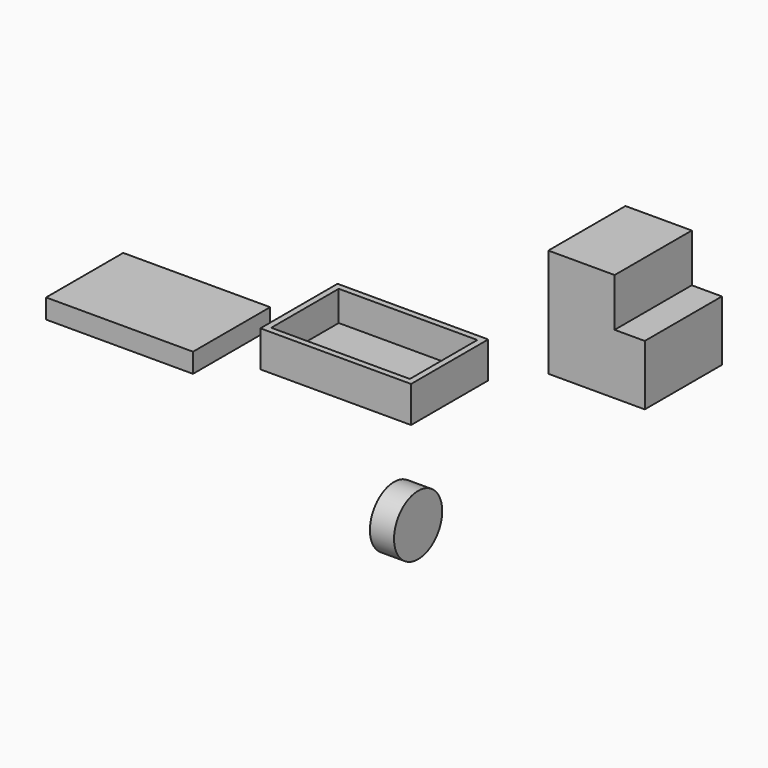
from build123d import *

# Parameters (mm, degrees)
F0_W     = 101.6
F0_H     = 63.5
F1_DEPTH = 101.6
F0_H_2   = 50.8
F2_DEPTH = 69.85
F3_W     = 158.75
F3_H     = 38.1
F4_DEPTH = 101.6
F3_W_2   = 154.7997891903
F3_H_2   = 20.5638110638
F5_R     = 31.75
F6_DEPTH = 25.4
F7_T     = -6.35


with BuildPart() as f1:
    # F0 (on Right) → F1 (new body)
    with BuildSketch(Plane.YZ):
        with Locations((129.9776777284, -311.7317557335)):
            Rectangle(F0_W, F0_H)
    extrude(amount=F1_DEPTH)

    # F0 (on Right) → F2 (join)
    with BuildSketch(Plane.YZ):
        with Locations((129.9776777284, -254.5817557335)):
            Rectangle(F0_W, F0_H_2)
        with Locations((129.9776777284, -311.7317557335)):
            Rectangle(F0_W, F0_H)
    extrude(amount=F2_DEPTH)


with BuildPart() as f4:
    # F3 (on Front) → F4 (new body)
    with BuildSketch(Plane.XZ):
        with Locations((-79.375, -298.4855981173)):
            Rectangle(F3_W, F3_H)
    extrude(amount=F4_DEPTH)

    # F7
    f7_openings = [f4.faces().sort_by_distance(p)[0] for p in [
        (-79.375, -50.8, -279.435598),
    ]]
    offset(amount=F7_T, openings=f7_openings)


with BuildPart() as f4b:
    # F3 (on Front) → F4, piece 2 (new body)
    with BuildSketch(Plane.XZ):
        with Locations((-307.129368186, -334.5033377409)):
            Rectangle(F3_W_2, F3_H_2)
    extrude(amount=F4_DEPTH)


with BuildPart() as f6:
    # F5 (on Right) → F6 (new body)
    with BuildSketch(Plane.YZ):
        with Locations((-124.0526214242, -392.8955793381)):
            Circle(F5_R)
    extrude(amount=F6_DEPTH)


solid = Compound([f1.part, f4.part, f4b.part, f6.part])
